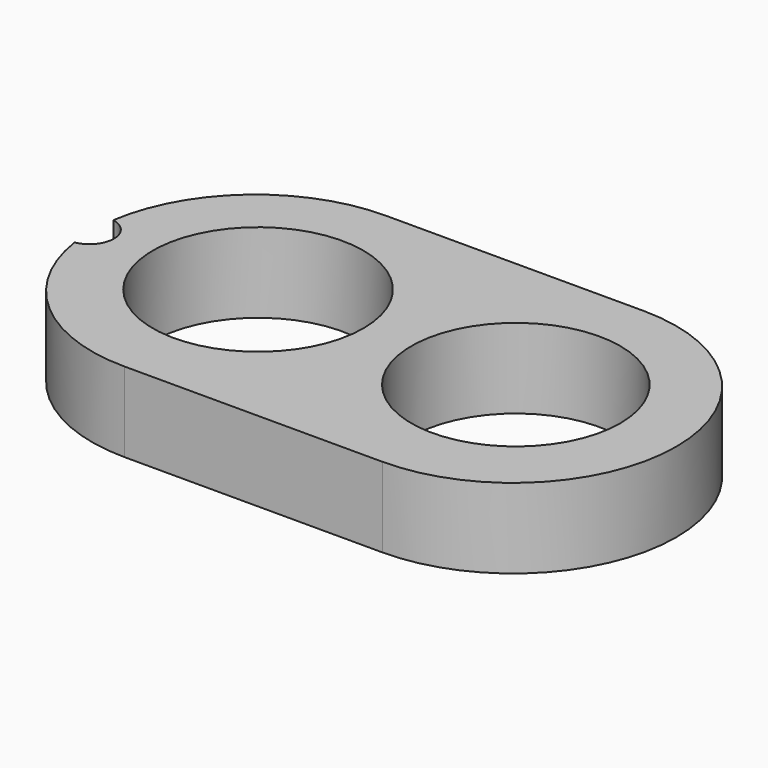
from build123d import *

# Parameters (mm, degrees)
F0_R     = 6.6
F0_R_2   = 6.55
F1_DEPTH = 5


with BuildPart() as f1:
    # F0 (on Top) → F1 (new body)
    with BuildSketch(Plane.XY):
        with BuildLine():
            Line((16.15, 10.01215), (0, 10.01215))
            ThreePointArc((0, 10.01215), (-6.6731, 7.538008), (-10.120357, 1.311607))
            ThreePointArc((-10.120357, 1.311607), (-8.866222, -0.208711), (-10.125611, -1.724678))
            ThreePointArc((-10.125611, -1.724678), (-6.686523, -7.974556), (0, -10.460258))
            Line((0, -10.460258), (16.15, -10.460258))
            ThreePointArc((16.15, -10.460258), (26.386204, -0.224054), (16.15, 10.01215))
        make_face()
        Circle(F0_R, mode=Mode.SUBTRACT)
        with Locations((16.15, 0)):
            Circle(F0_R_2, mode=Mode.SUBTRACT)
    extrude(amount=F1_DEPTH)


solid = f1.part
